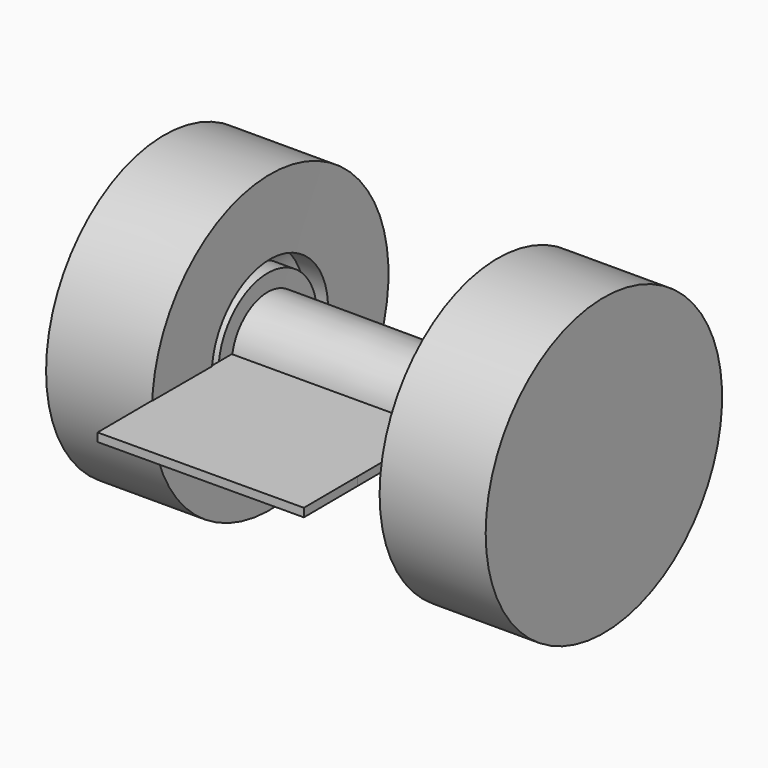
from build123d import *

# Parameters (mm, degrees)
F1_DEPTH = 2


with BuildPart() as f1:
    # F0 (on Top) → F1 (new body)
    with BuildSketch(Plane.XY):
        Polygon((31.5131578421, -35.7591467008), (31.4271690327, -19.7750013322), (-17.1485058373, -19.7750013322), (-17.2359029363, -19.7750013322), (-17.1485058373, -36.0209285118), align=None)
        Polygon((31.4271690327, -19.7750013322), (31.3315460785, -2), (-17.1485058373, -2), (-17.1485058373, -19.7750013322), align=None)
        Polygon((31.3315460785, -2), (31.3207868158, 0), (-17.3422851532, 0), (-17.3315258905, -2), (-17.1485058373, -2), align=None)
        Polygon((-17.3422851532, 0), (31.3207868158, 0), (31.2987173992, 4.1024031496), (-17.3636879772, 3.9784926921), align=None)
    extrude(amount=F1_DEPTH)


with BuildPart() as f2:
    # F0 (on Top) → F2 (revolve)
    with BuildSketch(Plane.XY):
        Polygon((31.3207868158, 0), (41.4709414437, 0), (49.784000963, 9.6011999994), (49.784000963, 14.6011999994), (-30.3421180755, 14.6011999994), (-30.3421180755, 9.6011999994), (-22.0290585563, 0), (-17.3422851532, 0), (-17.3636879772, 3.9784926921), (31.2987173992, 4.1024031496), align=None)
    revolve(axis=Axis((9.7209414437, 14.6011999994, 0), (-1, 0, 0)))


with BuildPart() as f3:
    # F0 (on Top) → F3 (revolve)
    with BuildSketch(Plane.XY):
        Polygon((-17.2359029363, -19.7750013322), (-17.3315258905, -2), (-22.9428902609, -2), (-32.3421180755, 8.8556742412), (-32.3421180755, 15.2249986678), (-42.3421180755, 15.2249986678), (-42.3421180755, -19.7750013322), align=None)
    revolve(axis=Axis((-37.3421180755, 15.2249986678, 0), (-1, 0, 0)))


with BuildPart() as f4:
    # F0 (on Top) → F4 (revolve)
    with BuildSketch(Plane.XY):
        Polygon((42.3847731483, -2), (36.657000963, -2), (36.657000963, -19.7750013322), (40.592000963, -19.7750013322), (61.784000963, -19.7750013322), (61.784000963, 15.2249986678), (51.784000963, 15.2249986678), (51.784000963, 8.8556742412), align=None)
    revolve(axis=Axis((56.784000963, 15.2249986678, 0), (1, 0, 0)))


solid = Compound([f1.part, f2.part, f3.part, f4.part])
